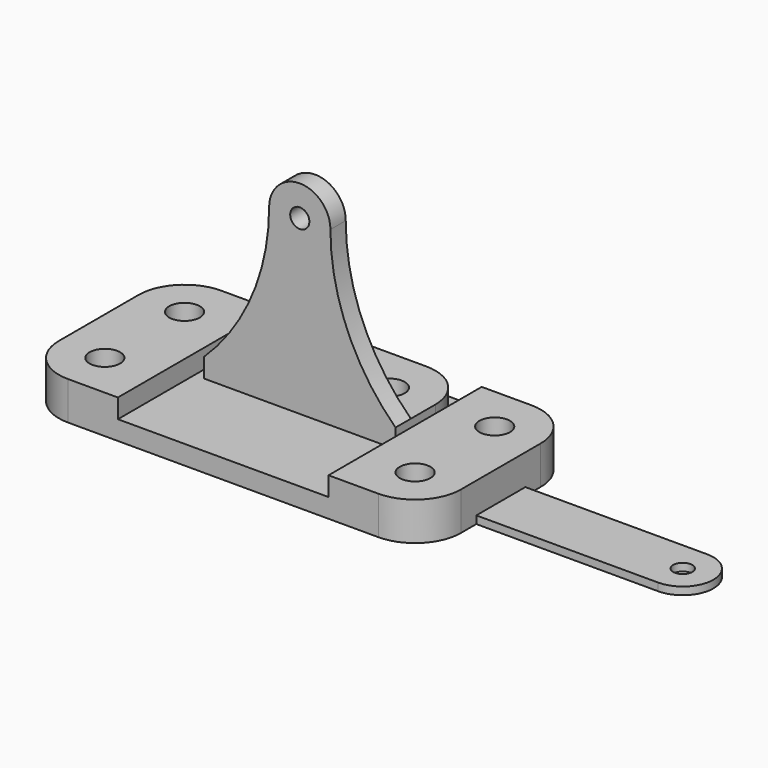
from build123d import *

# Parameters (mm, degrees)
SKETCH_R     = 4
PAD_DEPTH    = 10
SKETCH001_W  = 55
SKETCH001_H  = 50
POCKET_DEPTH = 5
SKETCH002_R  = 4
PAD001_DEPTH = 10
SKETCH003_R  = 2.5
PAD002_DEPTH = 5
SKETCH004_R  = 2.5
PAD003_DEPTH = 2


with BuildPart() as base:
    # Sketch → Pad (new body)
    with BuildSketch(Plane.XY):
        with BuildLine():
            Line((-52.5, 13), (-52.5, -13))
            ThreePointArc((-52.5, -13), (-48.985281, -21.485281), (-40.5, -25))
            Line((-40.5, -25), (40.5, -25))
            ThreePointArc((40.5, -25), (48.985281, -21.485281), (52.5, -13))
            Line((52.5, -13), (52.5, 13))
            ThreePointArc((52.5, 13), (48.985281, 21.485281), (40.5, 25))
            Line((40.5, 25), (-40.5, 25))
            ThreePointArc((-40.5, 25), (-48.985281, 21.485281), (-52.5, 13))
        make_face()
        with Locations((-40.5, 13)):
            Circle(SKETCH_R, mode=Mode.SUBTRACT)
        with Locations((-40.5, -13)):
            Circle(SKETCH_R, mode=Mode.SUBTRACT)
        with Locations((40.5, 13)):
            Circle(SKETCH_R, mode=Mode.SUBTRACT)
        with Locations((40.5, -13)):
            Circle(SKETCH_R, mode=Mode.SUBTRACT)
    extrude(amount=PAD_DEPTH)

    # Sketch001 (on Face14 of Pad) → Pocket (cut)
    with BuildSketch(Plane.XY.offset(10)):
        Rectangle(SKETCH001_W, SKETCH001_H)
    extrude(amount=-POCKET_DEPTH, mode=Mode.SUBTRACT)


with BuildPart() as bracket:
    # Sketch002 → Pad001 (new body)
    with BuildSketch(Plane.XY):
        with BuildLine():
            Line((-25, 13), (-25, 0))
            Line((-25, 0), (25, 0))
            Line((25, 0), (25, 13))
            ThreePointArc((25, 13), (21.485281, 21.485281), (13, 25))
            Line((13, 25), (-13, 25))
            ThreePointArc((-13, 25), (-21.485281, 21.485281), (-25, 13))
        make_face()
        with Locations((-13, 13)):
            Circle(SKETCH002_R, mode=Mode.SUBTRACT)
        with Locations((13, 13)):
            Circle(SKETCH002_R, mode=Mode.SUBTRACT)
    extrude(amount=PAD001_DEPTH)

    # Sketch003 (on Face2 of Pad001) → Pad002 (join)
    with BuildSketch(Plane.XZ):
        with BuildLine():
            ThreePointArc((-25, 10), (-12.42632, 28.268686), (-8, 50))
            ThreePointArc((8, 50), (0, 58), (-8, 50))
            ThreePointArc((8, 50), (12.42632, 28.268686), (25, 10))
            Line((-25, 10), (25, 10))
        make_face()
        with Locations((0, 50)):
            Circle(SKETCH003_R, mode=Mode.SUBTRACT)
    extrude(amount=-PAD002_DEPTH)


with BuildPart() as link:
    # Sketch004 → Pad003 (new body)
    with BuildSketch(Plane.XY):
        with BuildLine():
            ThreePointArc((0, 8), (-8, 0), (0, -8))
            Line((0, -8), (100, -8))
            ThreePointArc((100, -8), (108, 0), (100, 8))
            Line((0, 8), (100, 8))
        make_face()
        Circle(SKETCH004_R, mode=Mode.SUBTRACT)
        with Locations((100, 0)):
            Circle(SKETCH004_R, mode=Mode.SUBTRACT)
    extrude(amount=PAD003_DEPTH)


solid = Compound([base.part, bracket.part, link.part])
